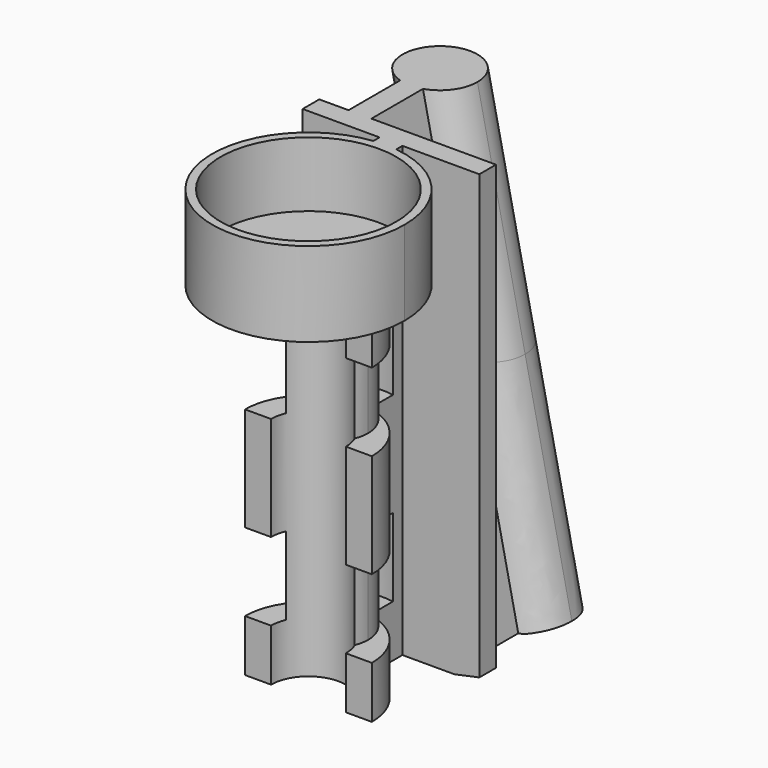
from build123d import *

# Parameters (mm, degrees)
F1_DEPTH  = 44.45
F9_DEPTH  = 9.525
F10_DEPTH = 9.525
F12_DEPTH = 2.38125
F13_R     = 11.7475
F13_R_2   = 10.7315
F14_DEPTH = 7.9375
F15_DEPTH = 10.31875
F16_W     = 26.9525004551
F16_H     = 57.8892836347
F17_DEPTH = 12.7
F19_W     = 21.59
F19_H     = 54.76875
F20_DEPTH = 2.54
F27_DEPTH = 25.4


with BuildPart() as f1:
    # F0 (on Top) → F1 (new body)
    with BuildSketch(Plane.XY):
        with BuildLine():
            ThreePointArc((-4.572, 0), (0, 4.572), (4.572, 0))
            Line((4.572, 0), (7.747, 0))
            ThreePointArc((7.747, 0), (5.951410253, 4.9595085442), (1.397, 7.62))
            ThreePointArc((1.397, 7.62), (0, 7.747), (-1.397, 7.62))
            ThreePointArc((-1.397, 7.62), (-5.951410253, 4.9595085442), (-7.747, 0))
            Line((-7.747, 0), (-4.572, 0))
        make_face()
        with BuildLine():
            ThreePointArc((-1.397, 7.62), (0, 7.747), (1.397, 7.62))
            Line((1.397, 7.62), (1.397, 19.3802))
            ThreePointArc((1.397, 19.3802), (0, 19.1615406713), (-1.397, 19.3802))
            Line((-1.397, 19.3802), (-1.397, 7.62))
        make_face()
        with BuildLine():
            ThreePointArc((-1.397, 19.3802), (0, 19.1615406713), (1.397, 19.3802))
            ThreePointArc((1.397, 19.3802), (3.6939320514, 21.0394638349), (4.572, 23.7335406713))
            ThreePointArc((4.572, 23.7335406713), (-2.6940768363, 27.4274727226), (-1.397, 19.3802))
        make_face()
    extrude(amount=F1_DEPTH)

    # F6 (on offset) → F9 (cut)
    with BuildSketch(Plane.XY.offset(28.575)):
        with BuildLine():
            ThreePointArc((4.1557772601, 1.7640375299), (0, -1.016), (-4.1557772601, 1.7640375299))
            Line((-4.1557772601, 1.7640375299), (-7.6070004234, 1.7640375299))
            ThreePointArc((-7.6070004234, 1.7640375299), (0, -4.318), (7.6070004234, 1.7640375299))
            Line((7.6070004234, 1.7640375299), (4.1557772601, 1.7640375299))
        make_face()
        with BuildLine():
            ThreePointArc((-4.1557772601, 1.7640375299), (-0.8747878771, 7.8904367738), (4.4961791045, 3.4801791045))
            ThreePointArc((4.4961791045, 3.4801791045), (4.4102576693, 2.6053912274), (4.1557772601, 1.7640375299))
            Line((4.1557772601, 1.7640375299), (7.6070004234, 1.7640375299))
            ThreePointArc((7.6070004234, 1.7640375299), (7.750237064, 2.6168003938), (7.7981791045, 3.4801791045))
            ThreePointArc((7.7981791045, 3.4801791045), (-0.8633787106, 11.2304161684), (-7.6070004234, 1.7640375299))
            Line((-7.6070004234, 1.7640375299), (-4.1557772601, 1.7640375299))
        make_face()
        with BuildLine():
            ThreePointArc((7.6070004234, 1.7640375299), (0, -4.318), (-7.6070004234, 1.7640375299))
            Line((-7.6070004234, 1.7640375299), (-8.4216929972, 1.7640375299))
            Line((-8.4216929972, 1.7640375299), (-8.4216929972, -6.3198274001))
            Line((-8.4216929972, -6.3198274001), (11.7628639564, -6.3198274001))
            Line((11.7628639564, -6.3198274001), (11.7628639564, 1.7640375299))
            Line((11.7628639564, 1.7640375299), (7.6070004234, 1.7640375299))
        make_face()
    extrude(amount=F9_DEPTH, mode=Mode.SUBTRACT)

    # F8 (on offset) → F10 (cut)
    with BuildSketch(Plane.XY.offset(15.875)):
        with BuildLine():
            ThreePointArc((4.179462045, 1.8225532258), (0, -1.016), (-4.179462045, 1.8225532258))
            Line((-4.179462045, 1.8225532258), (-7.6199654718, 1.8225532258))
            ThreePointArc((-7.6199654718, 1.8225532258), (0, -4.318), (7.6199654718, 1.8225532258))
            Line((7.6199654718, 1.8225532258), (4.179462045, 1.8225532258))
        make_face()
        with BuildLine():
            ThreePointArc((-4.179462045, 1.8225532258), (-0.8438058499, 7.8964692022), (4.4961791045, 3.4801791045))
            ThreePointArc((4.4961791045, 3.4801791045), (4.4162900977, 2.6363732546), (4.179462045, 1.8225532258))
            Line((4.179462045, 1.8225532258), (7.6199654718, 1.8225532258))
            ThreePointArc((7.6199654718, 1.8225532258), (7.7534976902, 2.6465899292), (7.7981791045, 3.4801791045))
            ThreePointArc((7.7981791045, 3.4801791045), (-0.8335891753, 11.2336767947), (-7.6199654718, 1.8225532258))
            Line((-7.6199654718, 1.8225532258), (-4.179462045, 1.8225532258))
        make_face()
        with BuildLine():
            ThreePointArc((7.6199654718, 1.8225532258), (0, -4.318), (-7.6199654718, 1.8225532258))
            Line((-7.6199654718, 1.8225532258), (-8.5849482566, 1.8225532258))
            Line((-8.5849482566, 1.8225532258), (-8.5849482566, -5.9901881032))
            Line((-8.5849482566, -5.9901881032), (8.4006469697, -5.9901881032))
            Line((8.4006469697, -5.9901881032), (8.4006469697, 1.8225532258))
            Line((8.4006469697, 1.8225532258), (7.6199654718, 1.8225532258))
        make_face()
    extrude(amount=-F10_DEPTH, mode=Mode.SUBTRACT)

    # F11 (on face) → F12 (join)
    with BuildSketch(Plane.XY.offset(44.45)):
        with BuildLine():
            ThreePointArc((-1.397, 11.6641393703), (-7.7971949684, -8.7867802337), (11.7475, 0))
            ThreePointArc((11.7475, 0), (8.7867802337, 7.7971949684), (1.397, 11.6641393703))
            Line((1.397, 11.6641393703), (1.397, 7.62))
            ThreePointArc((1.397, 7.62), (5.951410253, 4.9595085442), (7.747, 0))
            Line((7.747, 0), (4.572, 0))
            ThreePointArc((4.572, 0), (0, -4.572), (-4.572, 0))
            Line((-4.572, 0), (-7.747, 0))
            ThreePointArc((-7.747, 0), (-5.951410253, 4.9595085442), (-1.397, 7.62))
            Line((-1.397, 7.62), (-1.397, 11.6641393703))
        make_face()
        with BuildLine():
            Line((1.397, 7.62), (1.397, 11.6641393703))
            ThreePointArc((1.397, 11.6641393703), (0, 11.7475), (-1.397, 11.6641393703))
            Line((-1.397, 11.6641393703), (-1.397, 7.62))
            ThreePointArc((-1.397, 7.62), (-5.951410253, 4.9595085442), (-7.747, 0))
            Line((-7.747, 0), (-4.572, 0))
            ThreePointArc((-4.572, 0), (0, 4.572), (4.572, 0))
            Line((4.572, 0), (7.747, 0))
            ThreePointArc((7.747, 0), (5.951410253, 4.9595085442), (1.397, 7.62))
        make_face()
    extrude(amount=F12_DEPTH)

    # F13 (on face) → F14 (join)
    with BuildSketch(Plane.XY.offset(46.83125)):
        Circle(F13_R)
        Circle(F13_R_2, mode=Mode.SUBTRACT)
    extrude(amount=F14_DEPTH)

    # F15 (add, through all): a face of the model
    f15_faces = [f1.faces().sort_by_distance(p)[0] for p in [
        (0, 21.7334038121, 44.45),
    ]]
    extrude(f15_faces, amount=F15_DEPTH)

    # F16 (on Right) → F17 (cut, symmetric)
    with BuildSketch(Plane.YZ):
        with Locations((26.0822460987, 27.6629510336)):
            Rectangle(F16_W, F16_H)
    extrude(amount=F17_DEPTH, both=True, mode=Mode.SUBTRACT)



with BuildPart() as f20:
    # F19 (on offset) → F20 (new body)
    with BuildSketch(Plane(origin=(0, 12.6059958711, 0), x_dir=(-1, 0, 0), z_dir=(0, 1, 0))):
        with Locations((0, 27.384375)):
            Rectangle(F19_W, F19_H)
    extrude(amount=F20_DEPTH)

    # F24: sweep along a path in F23
    with BuildLine(Plane(origin=(0, 15.1459958711, 0), x_dir=(-1, 0, 0), z_dir=(0, 1, 0))) as f24_path:
        Line((0, 27.384375), (5.8207285935, 54.76875))
    # F22 (on mid) → F24 (sweep)
    with BuildSketch(Plane.XY.offset(27.384375)):
        with BuildLine():
            ThreePointArc((4.572, 27.3733365424), (-2.6940768363, 31.0672685937), (-1.397, 23.0199958711))
            ThreePointArc((-1.397, 23.0199958711), (0, 22.8013365424), (1.397, 23.0199958711))
            ThreePointArc((1.397, 23.0199958711), (3.6939320514, 24.6792597061), (4.572, 27.3733365424))
        make_face()
        with BuildLine():
            Line((-1.397, 23.0199958711), (-1.397, 15.1459958711))
            Line((-1.397, 15.1459958711), (1.397, 15.1459958711))
            Line((1.397, 15.1459958711), (1.397, 23.0199958711))
            ThreePointArc((1.397, 23.0199958711), (0, 22.8013365424), (-1.397, 23.0199958711))
        make_face()
    sweep(path=f24_path.line)


with BuildPart() as f1_1:
    add(f1.part)

    add(f20.part)  # F25 merges F20
    # F25: sweep along a path in F23
    with BuildLine(Plane(origin=(0, 15.1459958711, 0), x_dir=(-1, 0, 0), z_dir=(0, 1, 0))) as f25_path:
        Line((-5.8207285935, 0), (0, 27.384375))
    # F22 (on mid) → F25 (sweep)
    with BuildSketch(Plane.XY.offset(27.384375)):
        with BuildLine():
            Line((-1.397, 23.0199958711), (-1.397, 15.1459958711))
            Line((-1.397, 15.1459958711), (1.397, 15.1459958711))
            Line((1.397, 15.1459958711), (1.397, 23.0199958711))
            ThreePointArc((1.397, 23.0199958711), (0, 22.8013365424), (-1.397, 23.0199958711))
        make_face()
        with BuildLine():
            ThreePointArc((4.572, 27.3733365424), (-2.6940768363, 31.0672685937), (-1.397, 23.0199958711))
            ThreePointArc((-1.397, 23.0199958711), (0, 22.8013365424), (1.397, 23.0199958711))
            ThreePointArc((1.397, 23.0199958711), (3.6939320514, 24.6792597061), (4.572, 27.3733365424))
        make_face()
    sweep(path=f25_path.line)

    # F26 (on face) → F27 (cut)
    with BuildSketch(Plane.XZ.offset(-12.6059958711)):
        Polygon((7.747, 0), (3.5317886158, -0.8959708385), (7.8619366049, -6.503867323), (24.6146406516, -1.8187895067), (20.6104957086, 2.7342204189), (10.795, 0.6478724), (10.795, 0), align=None)
        Polygon((10.795, 0.6478724), (7.747, 0), (10.795, 0), align=None)
    extrude(amount=-F27_DEPTH, mode=Mode.SUBTRACT)


solid = f1_1.part
